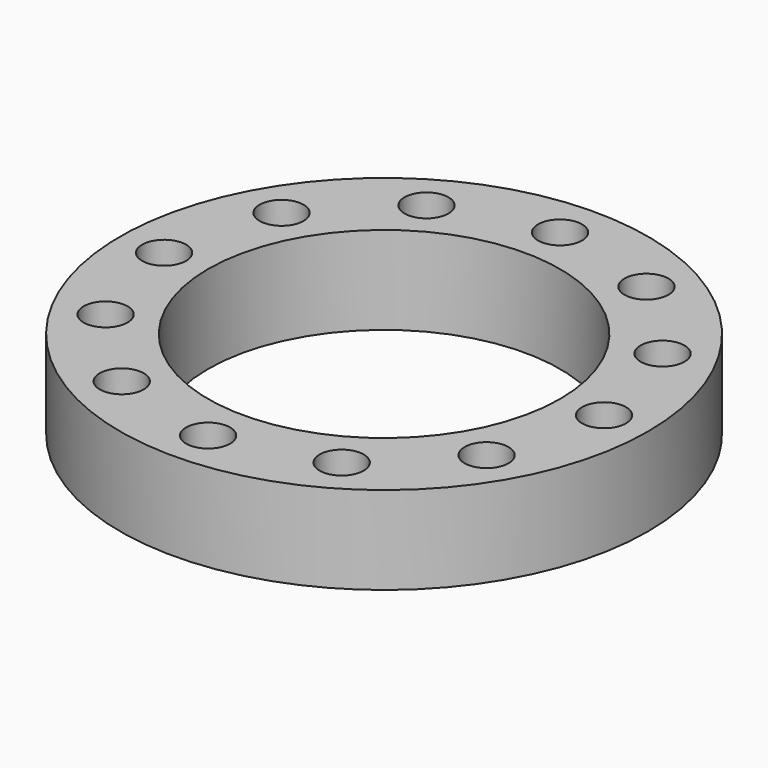
from build123d import *

# Parameters (mm, degrees)
F0_R     = 76.2
F0_R_2   = 6.35
F0_R_3   = 50.8
F1_DEPTH = 25.4


with BuildPart() as f1:
    # F0 (on Top) → F1 (new body)
    with BuildSketch(Plane.XY):
        Circle(F0_R)
        with Locations((-31.75, -54.992613)):
            Circle(F0_R_2, mode=Mode.SUBTRACT)
        with Locations((-54.992613, -31.75)):
            Circle(F0_R_2, mode=Mode.SUBTRACT)
        with Locations((-63.5, 0)):
            Circle(F0_R_2, mode=Mode.SUBTRACT)
        with Locations((0, -63.5)):
            Circle(F0_R_2, mode=Mode.SUBTRACT)
        with Locations((31.75, -54.992613)):
            Circle(F0_R_2, mode=Mode.SUBTRACT)
        with Locations((54.992613, -31.75)):
            Circle(F0_R_2, mode=Mode.SUBTRACT)
        with Locations((-54.992613, 31.75)):
            Circle(F0_R_2, mode=Mode.SUBTRACT)
        with Locations((-31.75, 54.992613)):
            Circle(F0_R_2, mode=Mode.SUBTRACT)
        Circle(F0_R_3, mode=Mode.SUBTRACT)
        with Locations((63.5, 0)):
            Circle(F0_R_2, mode=Mode.SUBTRACT)
        with Locations((54.992613, 31.75)):
            Circle(F0_R_2, mode=Mode.SUBTRACT)
        with Locations((31.75, 54.992613)):
            Circle(F0_R_2, mode=Mode.SUBTRACT)
        with Locations((0, 63.5)):
            Circle(F0_R_2, mode=Mode.SUBTRACT)
    extrude(amount=F1_DEPTH)


solid = f1.part
